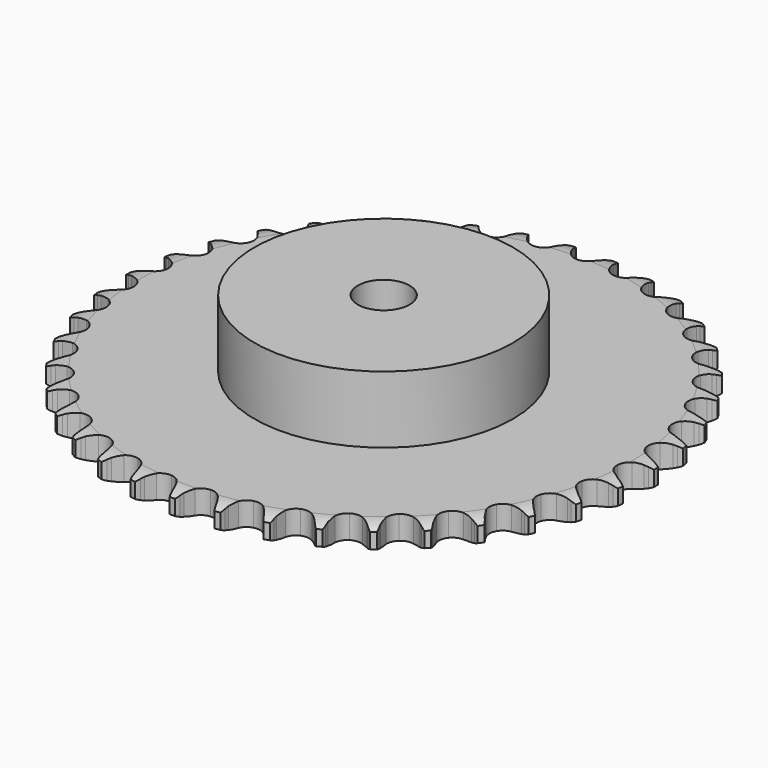
from build123d import *

# Parameters (mm, degrees)
PAD_DEPTH         = 9.1
SKETCH001_R       = 50
PAD001_DEPTH      = 35
SKETCH002_R       = 10
POCKET_DEPTH      = 0.001
POCKET_DEPTH_BACK = 35.001


with BuildPart() as part:
    # Sprocket → Pad (new body)
    with BuildSketch(Plane.XY):
        with BuildLine():
            ThreePointArc((-8.339812, 103.307115), (-7.225733, 101.913202), (-6.438066, 100.312033))
            Line((-6.438066, 100.312033), (-5.942659, 98.949016))
            ThreePointArc((-5.942659, 98.949016), (-5.159537, 97.199585), (-4.132583, 95.581205))
            ThreePointArc((-4.132583, 95.581205), (-2.31354, 94.049637), (0, 93.499951))
            ThreePointArc((0, 93.499951), (2.31354, 94.049637), (4.132583, 95.581205))
            ThreePointArc((4.132583, 95.581205), (5.159537, 97.199585), (5.942659, 98.949016))
            Line((5.942659, 98.949016), (6.438066, 100.312033))
            ThreePointArc((6.438066, 100.312033), (7.225733, 101.913202), (8.339812, 103.307115))
            ThreePointArc((8.339812, 103.307115), (9.215866, 101.752542), (9.736487, 100.045757))
            Line((9.736487, 100.045757), (10.006835, 98.620922))
            ThreePointArc((10.006835, 98.620922), (10.499188, 96.768524), (11.253236, 95.006366))
            ThreePointArc((11.253236, 95.006366), (12.803043, 93.202836), (14.998447, 92.289151))
            ThreePointArc((14.998447, 92.289151), (17.370203, 92.460601), (19.411371, 93.68054))
            Line((19.411371, 93.68054), (21.738242, 96.714383))
            ThreePointArc((21.738242, 96.714383), (22.074754, 97.357005), (22.445876, 97.98028))
            ThreePointArc((22.445876, 97.98028), (23.480189, 99.434364), (24.803441, 100.631515))
            ThreePointArc((24.803441, 100.631515), (25.418778, 98.956545), (25.65887, 97.188348))
            Line((25.65887, 97.188348), (25.697158, 95.738598))
            ThreePointArc((25.697158, 95.738598), (25.885989, 93.831209), (26.347603, 91.970913))
            ThreePointArc((26.347603, 91.970913), (27.588033, 89.942132), (29.608442, 88.688111))
            ThreePointArc((29.608442, 88.688111), (31.976986, 88.476884), (34.187414, 89.353599))
            Line((34.187414, 89.353599), (36.970815, 91.974898))
            ThreePointArc((36.970815, 91.974898), (37.406054, 92.555217), (37.87235, 93.110889))
            ThreePointArc((37.87235, 93.110889), (39.12652, 94.380228), (40.624673, 95.349611))
            ThreePointArc((40.624673, 95.349611), (40.963358, 93.597625), (40.916702, 91.813812))
            Line((40.916702, 91.813812), (40.721937, 90.376694))
            ThreePointArc((40.721937, 90.376694), (40.602357, 88.463715), (40.75958, 86.553461))
            ThreePointArc((40.75958, 86.553461), (41.658508, 84.351973), (43.451594, 82.790095))
            ThreePointArc((43.451594, 82.790095), (45.755583, 82.201662), (48.078021, 82.712447))
            Line((48.078021, 82.712447), (51.245864, 84.853311))
            ThreePointArc((51.245864, 84.853311), (51.768556, 85.356299), (52.31795, 85.829975))
            ThreePointArc((52.31795, 85.829975), (53.759496, 86.881694), (55.393747, 87.598203))
            ThreePointArc((55.393747, 87.598203), (55.447008, 85.814575), (55.114813, 84.061347))
            Line((55.114813, 84.061347), (54.69204, 82.674082))
            ThreePointArc((54.69204, 82.674082), (54.267144, 80.805057), (54.115906, 78.89432))
            ThreePointArc((54.115906, 78.89432), (54.650049, 76.577142), (56.169372, 74.747859))
            ThreePointArc((56.169372, 74.747859), (58.349134, 73.79746), (60.723433, 73.929085))
            Line((60.723433, 73.929085), (64.193672, 75.534069))
            ThreePointArc((64.193672, 75.534069), (64.79028, 75.946696), (65.408543, 76.32611))
            ThreePointArc((65.408543, 76.32611), (67.000128, 77.132969), (68.728153, 77.578047))
            ThreePointArc((68.728153, 77.578047), (68.49461, 75.808974), (67.885479, 74.131737))
            Line((67.885479, 74.131737), (67.245648, 72.830254))
            ThreePointArc((67.245648, 72.830254), (66.526442, 71.053591), (66.070658, 69.191857))
            ThreePointArc((66.070658, 69.191857), (66.226183, 66.819004), (67.432393, 64.769693))
            ThreePointArc((67.432393, 64.769693), (69.431473, 63.481943), (71.79614, 63.230999))
            Line((71.79614, 63.230999), (75.478897, 64.258533))
            ThreePointArc((75.478897, 64.258533), (76.13397, 64.570115), (76.805088, 64.845439))
            ThreePointArc((76.805088, 64.845439), (78.505492, 65.386541), (80.282535, 65.548661))
            ThreePointArc((80.282535, 65.548661), (79.768237, 63.839959), (78.897946, 62.282154))
            Line((78.897946, 62.282154), (78.057629, 61.10016))
            ThreePointArc((78.057629, 61.10016), (77.062739, 59.461873), (76.314215, 57.697362))
            ThreePointArc((76.314215, 57.697362), (76.087093, 55.330289), (76.948951, 53.114026))
            ThreePointArc((76.948951, 53.114026), (78.715574, 51.522277), (81.009364, 50.895264))
            Line((81.009364, 50.895264), (84.809259, 51.318735))
            ThreePointArc((84.809259, 51.318735), (85.50583, 51.521201), (86.212423, 51.685305))
            ThreePointArc((86.212423, 51.685305), (87.977606, 51.946636), (89.757642, 51.821599))
            ThreePointArc((89.757642, 51.821599), (88.975909, 50.217523), (87.866999, 48.819496))
            Line((87.866999, 48.819496), (86.847958, 47.787605))
            ThreePointArc((86.847958, 47.787605), (85.603152, 46.330125), (84.581273, 44.708535))
            ThreePointArc((84.581273, 44.708535), (83.977388, 42.408548), (84.472571, 40.082733))
            ThreePointArc((84.472571, 40.082733), (85.960982, 38.228211), (88.124489, 37.241368))
            Line((88.124489, 37.241368), (91.943106, 37.049809))
            ThreePointArc((91.943106, 37.049809), (92.663134, 37.137915), (93.386901, 37.186549))
            ThreePointArc((93.386901, 37.186549), (95.171145, 37.16134), (96.908073, 36.752384))
            ThreePointArc((96.908073, 36.752384), (95.879152, 35.29448), (94.560342, 34.092438))
            Line((94.560342, 34.092438), (93.388971, 33.237376))
            ThreePointArc((93.388971, 33.237376), (91.926489, 31.998451), (90.657722, 30.561781))
            ThreePointArc((90.657722, 30.561781), (89.692712, 28.388448), (89.808396, 26.013319))
            ThreePointArc((89.808396, 26.013319), (90.980047, 23.944055), (92.957235, 22.62294))
            Line((92.957235, 22.62294), (96.695674, 21.821313))
            ThreePointArc((96.695674, 21.821313), (97.420511, 21.792777), (98.142707, 21.724681))
            ThreePointArc((98.142707, 21.724681), (99.899802, 21.413585), (101.548636, 20.731302))
            ThreePointArc((101.548636, 20.731302), (100.299175, 19.457328), (98.804622, 18.482404))
            Line((98.804622, 18.482404), (97.511258, 17.826316))
            ThreePointArc((97.511258, 17.826316), (95.868977, 16.838033), (94.386182, 15.623493))
            ThreePointArc((94.386182, 15.623493), (93.085043, 13.633102), (92.818231, 11.270174))
            ThreePointArc((92.818231, 11.270174), (93.642775, 9.03976), (95.382438, 7.418589))
            Line((95.382438, 7.418589), (98.943875, 6.027656))
            ThreePointArc((98.943875, 6.027656), (99.654748, 5.883217), (100.356668, 5.700154))
            ThreePointArc((100.356668, 5.700154), (102.041106, 5.11123), (103.559143, 4.173291))
            ThreePointArc((103.559143, 4.173291), (102.121502, 3.116242), (100.489914, 2.393686))
            Line((100.489914, 2.393686), (99.108055, 1.953564))
            ThreePointArc((99.108055, 1.953564), (97.32851, 1.24152), (95.670091, 0.280564))
            ThreePointArc((95.670091, 0.280564), (94.066519, -1.475334), (93.424122, -3.764863))
            ThreePointArc((93.424122, -3.764863), (93.880205, -6.09866), (95.337286, -7.977899))
            Line((95.337286, -7.977899), (98.629482, -9.922115))
            ThreePointArc((98.629482, -9.922115), (99.30798, -10.178715), (99.971445, -10.472003))
            ThreePointArc((99.971445, -10.472003), (101.5396, -11.323504), (102.887522, -12.492807))
            ThreePointArc((102.887522, -12.492807), (101.298935, -13.305553), (99.572571, -13.757027))
            Line((99.572571, -13.757027), (98.138006, -13.969784))
            ThreePointArc((98.138006, -13.969784), (96.267285, -14.387148), (94.476194, -15.069631))
            ThreePointArc((94.476194, -15.069631), (92.611722, -16.545559), (91.610378, -18.702392))
            ThreePointArc((91.610378, -18.702392), (91.686187, -21.079128), (92.822948, -23.167763))
            Line((92.822948, -23.167763), (95.760637, -25.614907))
            ThreePointArc((95.760637, -25.614907), (96.389187, -25.977023), (96.997013, -26.372941))
            ThreePointArc((96.997013, -26.372941), (98.408271, -27.464965), (99.551168, -28.835348))
            ThreePointArc((99.551168, -28.835348), (97.85278, -29.382742), (96.07635, -29.551441))
            Line((96.07635, -29.551441), (94.626233, -29.531322))
            ThreePointArc((94.626233, -29.531322), (92.712788, -29.643197), (90.835413, -30.02953))
            ThreePointArc((90.835413, -30.02953), (88.75833, -31.187264), (87.423973, -33.155539))
            ThreePointArc((87.423973, -33.155539), (87.117545, -35.513658), (87.904545, -37.757595))
            Line((87.904545, -37.757595), (90.411642, -40.644288))
            ThreePointArc((90.411642, -40.644288), (90.973965, -41.10254), (91.51041, -41.590833))
            ThreePointArc((91.51041, -41.590833), (92.728219, -42.895097), (93.636492, -44.431068))
            ThreePointArc((93.636492, -44.431068), (91.872289, -44.698933), (90.091802, -44.580488))
            Line((90.091802, -44.580488), (88.663691, -44.328014))
            ThreePointArc((88.663691, -44.328014), (86.757079, -44.131503), (84.842043, -44.21168))
            ThreePointArc((84.842043, -44.21168), (82.606144, -45.021234), (80.973333, -46.749975))
            ThreePointArc((80.973333, -46.749975), (80.292605, -49.028402), (80.70946, -51.369524))
            Line((80.70946, -51.369524), (82.721032, -54.621002))
            ThreePointArc((82.721032, -54.621002), (83.202565, -55.163524), (83.653736, -55.731545))
            ThreePointArc((83.653736, -55.731545), (84.646556, -57.21427), (85.296679, -58.876047))
            ThreePointArc((85.296679, -58.876047), (83.512354, -58.857445), (81.773923, -58.454924))
            Line((81.773923, -58.454924), (80.404806, -57.976635))
            ThreePointArc((80.404806, -57.976635), (78.554406, -57.476825), (76.651309, -57.248772))
            ThreePointArc((76.651309, -57.248772), (74.314503, -57.689179), (72.425526, -59.133611))
            ThreePointArc((72.425526, -59.133611), (71.388128, -61.273337), (71.424042, -63.65101))
            Line((71.424042, -63.65101), (72.887992, -67.183061))
            ThreePointArc((72.887992, -67.183061), (73.276262, -67.7958), (73.630473, -68.428839))
            ThreePointArc((73.630473, -68.428839), (74.372591, -70.051622), (74.747728, -71.796167))
            ThreePointArc((74.747728, -71.796167), (72.989493, -71.49158), (71.338143, -70.815407))
            Line((71.338143, -70.815407), (70.063479, -70.12369))
            ThreePointArc((70.063479, -70.12369), (68.317216, -69.333528), (66.475345, -68.80315))
            ThreePointArc((66.475345, -68.80315), (64.098154, -68.863003), (62.001936, -69.985718))
            ThreePointArc((62.001936, -69.985718), (60.634736, -71.931324), (60.28878, -74.283969))
            Line((60.28878, -74.283969), (61.167191, -78.005114))
            ThreePointArc((61.167191, -78.005114), (61.452142, -78.672202), (61.70022, -79.353862))
            ThreePointArc((61.70022, -79.353862), (62.172415, -81.074675), (62.262849, -82.856804))
            ThreePointArc((62.262849, -82.856804), (60.576242, -82.274121), (59.054743, -81.341809))
            Line((59.054743, -81.341809), (57.907544, -80.454579))
            ThreePointArc((57.907544, -80.454579), (56.310646, -79.39453), (54.577706, -78.575562))
            ThreePointArc((54.577706, -78.575562), (52.221697, -78.253313), (49.972528, -79.025231))
            ThreePointArc((49.972528, -79.025231), (48.310936, -80.726328), (47.592069, -82.993011))
            Line((47.592069, -82.993011), (47.862191, -86.806876))
            ThreePointArc((47.862191, -86.806876), (48.036445, -87.511034), (48.171964, -88.223662))
            ThreePointArc((48.171964, -88.223662), (48.362006, -89.997936), (48.165396, -91.771494))
            ThreePointArc((48.165396, -91.771494), (46.594098, -90.925805), (45.241856, -89.761501))
            Line((45.241856, -89.761501), (44.251835, -88.701737))
            ThreePointArc((44.251835, -88.701737), (42.84566, -87.399254), (41.266532, -86.312909))
            ThreePointArc((41.266532, -86.312909), (38.992726, -85.616902), (36.648859, -86.018033))
            ThreePointArc((36.648859, -86.018033), (34.735908, -87.430563), (33.662749, -89.552578))
            Line((33.662749, -89.552578), (33.317586, -93.360385))
            ThreePointArc((33.317586, -93.360385), (33.376628, -94.083377), (33.396079, -94.808515))
            ThreePointArc((33.396079, -94.808515), (33.299047, -96.590297), (32.820483, -98.30935))
            ThreePointArc((32.820483, -98.30935), (31.405192, -97.222559), (30.257228, -95.856417))
            Line((30.257228, -95.856417), (29.450026, -94.651566))
            ThreePointArc((29.450026, -94.651566), (28.270993, -93.140384), (26.886577, -91.814797))
            ThreePointArc((26.886577, -91.814797), (24.753864, -90.763059), (22.376003, -90.783012))
            ThreePointArc((22.376003, -90.783012), (20.261239, -91.870391), (18.861582, -93.792781))
            Line((18.861582, -93.792781), (17.910073, -97.495909))
            ThreePointArc((17.910073, -97.495909), (17.852375, -98.21901), (17.755253, -98.937877))
            ThreePointArc((17.755253, -98.937877), (17.373659, -100.681021), (16.625538, -102.301045))
            ThreePointArc((16.625538, -102.301045), (15.402908, -101.001299), (14.488954, -99.468703))
            Line((14.488954, -99.468703), (13.885477, -98.14997))
            ThreePointArc((13.885477, -98.14997), (12.964123, -96.469227), (11.810274, -94.93873))
            ThreePointArc((11.810274, -94.93873), (9.873889, -93.5585), (7.52362, -93.196759))
            ThreePointArc((7.52362, -93.196759), (5.261814, -93.930825), (3.571909, -95.603799))
            Line((3.571909, -95.603799), (2.038699, -99.106341))
            ThreePointArc((2.038699, -99.106341), (1.865754, -99.810822), (1.654576, -100.504801))
            ThreePointArc((1.654576, -100.504801), (0.998304, -102.164159), (0, -103.643198))
            ThreePointArc((0, -103.643198), (-0.998304, -102.164159), (-1.654576, -100.504801))
            Line((-1.654576, -100.504801), (-2.038699, -99.106341))
            ThreePointArc((-2.038699, -99.106341), (-2.678511, -97.299567), (-3.571909, -95.603799))
            ThreePointArc((-3.571909, -95.603799), (-5.261814, -93.930825), (-7.52362, -93.196759))
            ThreePointArc((-7.52362, -93.196759), (-9.873889, -93.5585), (-11.810274, -94.93873))
            Line((-11.810274, -94.93873), (-13.885477, -98.14997))
            ThreePointArc((-13.885477, -98.14997), (-14.169189, -98.817586), (-14.488954, -99.468703))
            ThreePointArc((-14.488954, -99.468703), (-15.402908, -101.001299), (-16.625538, -102.301045))
            ThreePointArc((-16.625538, -102.301045), (-17.373659, -100.681021), (-17.755253, -98.937877))
            Line((-17.755253, -98.937877), (-17.910073, -97.495909))
            ThreePointArc((-17.910073, -97.495909), (-18.251773, -95.6099), (-18.861582, -93.792781))
            ThreePointArc((-18.861582, -93.792781), (-20.261239, -91.870391), (-22.376003, -90.783012))
            ThreePointArc((-22.376003, -90.783012), (-24.753864, -90.763059), (-26.886577, -91.814797))
            Line((-26.886577, -91.814797), (-29.450026, -94.651566))
            ThreePointArc((-29.450026, -94.651566), (-29.837157, -95.265026), (-30.257228, -95.856417))
            ThreePointArc((-30.257228, -95.856417), (-31.405192, -97.222559), (-32.820483, -98.30935))
            ThreePointArc((-32.820483, -98.30935), (-33.299047, -96.590297), (-33.396079, -94.808515))
            Line((-33.396079, -94.808515), (-33.317586, -93.360385))
            ThreePointArc((-33.317586, -93.360385), (-33.352324, -91.443987), (-33.662749, -89.552578))
            ThreePointArc((-33.662749, -89.552578), (-34.735908, -87.430563), (-36.648859, -86.018033))
            ThreePointArc((-36.648859, -86.018033), (-38.992726, -85.616902), (-41.266532, -86.312909))
            Line((-41.266532, -86.312909), (-44.251835, -88.701737))
            ThreePointArc((-44.251835, -88.701737), (-44.732358, -89.245152), (-45.241856, -89.761501))
            ThreePointArc((-45.241856, -89.761501), (-46.594098, -90.925805), (-48.165396, -91.771494))
            ThreePointArc((-48.165396, -91.771494), (-48.362006, -89.997936), (-48.171964, -88.223662))
            Line((-48.171964, -88.223662), (-47.862191, -86.806876))
            ThreePointArc((-47.862191, -86.806876), (-47.589067, -84.909722), (-47.592069, -82.993011))
            ThreePointArc((-47.592069, -82.993011), (-48.310936, -80.726328), (-49.972528, -79.025231))
            ThreePointArc((-49.972528, -79.025231), (-52.221697, -78.253313), (-54.577706, -78.575562))
            Line((-54.577706, -78.575562), (-57.907544, -80.454579))
            ThreePointArc((-57.907544, -80.454579), (-58.469015, -80.913876), (-59.054743, -81.341809))
            ThreePointArc((-59.054743, -81.341809), (-60.576242, -82.274121), (-62.262849, -82.856804))
            ThreePointArc((-62.262849, -82.856804), (-62.172415, -81.074675), (-61.70022, -79.353862))
            Line((-61.70022, -79.353862), (-61.167191, -78.005114))
            ThreePointArc((-61.167191, -78.005114), (-60.593279, -76.17634), (-60.28878, -74.283969))
            ThreePointArc((-60.28878, -74.283969), (-60.634736, -71.931324), (-62.001936, -69.985718))
            ThreePointArc((-62.001936, -69.985718), (-64.098154, -68.863003), (-66.475345, -68.80315))
            Line((-66.475345, -68.80315), (-70.063479, -70.12369))
            ThreePointArc((-70.063479, -70.12369), (-70.691356, -70.486973), (-71.338143, -70.815407))
            ThreePointArc((-71.338143, -70.815407), (-72.989493, -71.49158), (-74.747728, -71.796167))
            ThreePointArc((-74.747728, -71.796167), (-74.372591, -70.051622), (-73.630473, -68.428839))
            Line((-73.630473, -68.428839), (-72.887992, -67.183061))
            ThreePointArc((-72.887992, -67.183061), (-72.028156, -65.470031), (-71.424042, -63.65101))
            ThreePointArc((-71.424042, -63.65101), (-71.388128, -61.273337), (-72.425526, -59.133611))
            ThreePointArc((-72.425526, -59.133611), (-74.314503, -57.689179), (-76.651309, -57.248772))
            Line((-76.651309, -57.248772), (-80.404806, -57.976635))
            ThreePointArc((-80.404806, -57.976635), (-81.082827, -58.234494), (-81.773923, -58.454924))
            ThreePointArc((-81.773923, -58.454924), (-83.512354, -58.857445), (-85.296679, -58.876047))
            ThreePointArc((-85.296679, -58.876047), (-84.646556, -57.21427), (-83.653736, -55.731545))
            Line((-83.653736, -55.731545), (-82.721032, -54.621002))
            ThreePointArc((-82.721032, -54.621002), (-81.597542, -53.068083), (-80.70946, -51.369524))
            ThreePointArc((-80.70946, -51.369524), (-80.292605, -49.028402), (-80.973333, -46.749975))
            ThreePointArc((-80.973333, -46.749975), (-82.606144, -45.021234), (-84.842043, -44.21168))
            Line((-84.842043, -44.21168), (-88.663691, -44.328014))
            ThreePointArc((-88.663691, -44.328014), (-89.374295, -44.473773), (-90.091802, -44.580488))
            ThreePointArc((-90.091802, -44.580488), (-91.872289, -44.698933), (-93.636492, -44.431068))
            ThreePointArc((-93.636492, -44.431068), (-92.728219, -42.895097), (-91.51041, -41.590833))
            Line((-91.51041, -41.590833), (-90.411642, -40.644288))
            ThreePointArc((-90.411642, -40.644288), (-89.053594, -39.291699), (-87.904545, -37.757595))
            ThreePointArc((-87.904545, -37.757595), (-87.117545, -35.513658), (-87.423973, -33.155539))
            ThreePointArc((-87.423973, -33.155539), (-88.75833, -31.187264), (-90.835413, -30.02953))
            Line((-90.835413, -30.02953), (-94.626233, -29.531322))
            ThreePointArc((-94.626233, -29.531322), (-95.351016, -29.561204), (-96.07635, -29.551441))
            ThreePointArc((-96.07635, -29.551441), (-97.85278, -29.382742), (-99.551168, -28.835348))
            ThreePointArc((-99.551168, -28.835348), (-98.408271, -27.464965), (-96.997013, -26.372941))
            Line((-96.997013, -26.372941), (-95.760637, -25.614907))
            ThreePointArc((-95.760637, -25.614907), (-94.203205, -24.497681), (-92.822948, -23.167763))
            ThreePointArc((-92.822948, -23.167763), (-91.686187, -21.079128), (-91.610378, -18.702392))
            ThreePointArc((-91.610378, -18.702392), (-92.611722, -16.545559), (-94.476194, -15.069631))
            Line((-94.476194, -15.069631), (-98.138006, -13.969784))
            ThreePointArc((-98.138006, -13.969784), (-98.858196, -13.883016), (-99.572571, -13.757027))
            ThreePointArc((-99.572571, -13.757027), (-101.298935, -13.305553), (-102.887522, -12.492807))
            ThreePointArc((-102.887522, -12.492807), (-101.5396, -11.323504), (-99.971445, -10.472003))
            Line((-99.971445, -10.472003), (-98.629482, -9.922115))
            ThreePointArc((-98.629482, -9.922115), (-96.913003, -9.069185), (-95.337286, -7.977899))
            ThreePointArc((-95.337286, -7.977899), (-93.880205, -6.09866), (-93.424122, -3.764863))
            ThreePointArc((-93.424122, -3.764863), (-94.066519, -1.475334), (-95.670091, 0.280564))
            Line((-95.670091, 0.280564), (-99.108055, 1.953564))
            ThreePointArc((-99.108055, 1.953564), (-99.805001, 2.154736), (-100.489914, 2.393686))
            ThreePointArc((-100.489914, 2.393686), (-102.121502, 3.116242), (-103.559143, 4.173291))
            ThreePointArc((-103.559143, 4.173291), (-102.041106, 5.11123), (-100.356668, 5.700154))
            Line((-100.356668, 5.700154), (-98.943875, 6.027656))
            ThreePointArc((-98.943875, 6.027656), (-97.112804, 6.594197), (-95.382438, 7.418589))
            ThreePointArc((-95.382438, 7.418589), (-93.642775, 9.03976), (-92.818231, 11.270174))
            ThreePointArc((-92.818231, 11.270174), (-93.085043, 13.633102), (-94.386182, 15.623493))
            Line((-94.386182, 15.623493), (-97.511258, 17.826316))
            ThreePointArc((-97.511258, 17.826316), (-98.166909, 18.136681), (-98.804622, 18.482404))
            ThreePointArc((-98.804622, 18.482404), (-100.299175, 19.457328), (-101.548636, 20.731302))
            ThreePointArc((-101.548636, 20.731302), (-99.899802, 21.413585), (-98.142707, 21.724681))
            Line((-98.142707, 21.724681), (-96.695674, 21.821313))
            ThreePointArc((-96.695674, 21.821313), (-94.797435, 22.086793), (-92.957235, 22.62294))
            ThreePointArc((-92.957235, 22.62294), (-90.980047, 23.944055), (-89.808396, 26.013319))
            ThreePointArc((-89.808396, 26.013319), (-89.692712, 28.388448), (-90.657722, 30.561781))
            Line((-90.657722, 30.561781), (-93.388971, 33.237376))
            ThreePointArc((-93.388971, 33.237376), (-93.986345, 33.648895), (-94.560342, 34.092438))
            ThreePointArc((-94.560342, 34.092438), (-95.879152, 35.29448), (-96.908073, 36.752384))
            ThreePointArc((-96.908073, 36.752384), (-95.171145, 37.16134), (-93.386901, 37.186549))
            Line((-93.386901, 37.186549), (-91.943106, 37.049809))
            ThreePointArc((-91.943106, 37.049809), (-90.026863, 37.007353), (-88.124489, 37.241368))
            ThreePointArc((-88.124489, 37.241368), (-85.960982, 38.228211), (-84.472571, 40.082733))
            ThreePointArc((-84.472571, 40.082733), (-83.977388, 42.408548), (-84.581273, 44.708535))
            Line((-84.581273, 44.708535), (-86.847958, 47.787605))
            ThreePointArc((-86.847958, 47.787605), (-87.371584, 48.28962), (-87.866999, 48.819496))
            ThreePointArc((-87.866999, 48.819496), (-88.975909, 50.217523), (-89.757642, 51.821599))
            ThreePointArc((-89.757642, 51.821599), (-87.977606, 51.946636), (-86.212423, 51.685305))
            Line((-86.212423, 51.685305), (-84.809259, 51.318735))
            ThreePointArc((-84.809259, 51.318735), (-82.924641, 50.969442), (-81.009364, 50.895264))
            ThreePointArc((-81.009364, 50.895264), (-78.715574, 51.522277), (-76.948951, 53.114026))
            ThreePointArc((-76.948951, 53.114026), (-76.087093, 55.330289), (-76.314215, 57.697362))
            Line((-76.314215, 57.697362), (-78.057629, 61.10016))
            ThreePointArc((-78.057629, 61.10016), (-78.493945, 61.67967), (-78.897946, 62.282154))
            ThreePointArc((-78.897946, 62.282154), (-79.768237, 63.839959), (-80.282535, 65.548661))
            ThreePointArc((-80.282535, 65.548661), (-78.505492, 65.386541), (-76.805088, 64.845439))
            Line((-76.805088, 64.845439), (-75.478897, 64.258533))
            ThreePointArc((-75.478897, 64.258533), (-73.674716, 63.611449), (-71.79614, 63.230999))
            ThreePointArc((-71.79614, 63.230999), (-69.431473, 63.481943), (-67.432393, 64.769693))
            ThreePointArc((-67.432393, 64.769693), (-66.226183, 66.819004), (-66.070658, 69.191857))
            Line((-66.070658, 69.191857), (-67.245648, 72.830254))
            ThreePointArc((-67.245648, 72.830254), (-67.583354, 73.472249), (-67.885479, 74.131737))
            ThreePointArc((-67.885479, 74.131737), (-68.49461, 75.808974), (-68.728153, 77.578047))
            ThreePointArc((-68.728153, 77.578047), (-67.000128, 77.132969), (-65.408543, 76.32611))
            Line((-65.408543, 76.32611), (-64.193672, 75.534069))
            ThreePointArc((-64.193672, 75.534069), (-62.516653, 74.605953), (-60.723433, 73.929085))
            ThreePointArc((-60.723433, 73.929085), (-58.349134, 73.79746), (-56.169372, 74.747859))
            ThreePointArc((-56.169372, 74.747859), (-54.650049, 76.577142), (-54.115906, 78.89432))
            Line((-54.115906, 78.89432), (-54.69204, 82.674082))
            ThreePointArc((-54.69204, 82.674082), (-54.92239, 83.361935), (-55.114813, 84.061347))
            ThreePointArc((-55.114813, 84.061347), (-55.447008, 85.814575), (-55.393747, 87.598203))
            ThreePointArc((-55.393747, 87.598203), (-53.759496, 86.881694), (-52.31795, 85.829975))
            Line((-52.31795, 85.829975), (-51.245864, 84.853311))
            ThreePointArc((-51.245864, 84.853311), (-49.739443, 83.668202), (-48.078021, 82.712447))
            ThreePointArc((-48.078021, 82.712447), (-45.755583, 82.201662), (-43.451594, 82.790095))
            ThreePointArc((-43.451594, 82.790095), (-41.658508, 84.351973), (-40.75958, 86.553461))
            Line((-40.75958, 86.553461), (-40.721937, 90.376694))
            ThreePointArc((-40.721937, 90.376694), (-40.838965, 91.092591), (-40.916702, 91.813812))
            ThreePointArc((-40.916702, 91.813812), (-40.963358, 93.597625), (-40.624673, 95.349611))
            ThreePointArc((-40.624673, 95.349611), (-39.12652, 94.380228), (-37.87235, 93.110889))
            Line((-37.87235, 93.110889), (-36.970815, 91.974898))
            ThreePointArc((-36.970815, 91.974898), (-35.674006, 90.563489), (-34.187414, 89.353599))
            ThreePointArc((-34.187414, 89.353599), (-31.976986, 88.476884), (-29.608442, 88.688111))
            ThreePointArc((-29.608442, 88.688111), (-27.588033, 89.942132), (-26.347603, 91.970913))
            Line((-26.347603, 91.970913), (-25.697158, 95.738598))
            ThreePointArc((-25.697158, 95.738598), (-25.697832, 96.463996), (-25.65887, 97.188348))
            ThreePointArc((-25.65887, 97.188348), (-25.418778, 98.956545), (-24.803441, 100.631515))
            ThreePointArc((-24.803441, 100.631515), (-23.480189, 99.434364), (-22.445876, 97.98028))
            Line((-22.445876, 97.98028), (-21.738242, 96.714383))
            ThreePointArc((-21.738242, 96.714383), (-20.684632, 95.113228), (-19.411371, 93.68054))
            ThreePointArc((-19.411371, 93.68054), (-17.370203, 92.460601), (-14.998447, 92.289151))
            ThreePointArc((-14.998447, 92.289151), (-12.803043, 93.202836), (-11.253236, 95.006366))
            Line((-11.253236, 95.006366), (-10.006835, 98.620922))
            ThreePointArc((-10.006835, 98.620922), (-9.891138, 99.337035), (-9.736487, 100.045757))
            ThreePointArc((-9.736487, 100.045757), (-9.215866, 101.752542), (-8.339812, 103.307115))
        make_face()
    extrude(amount=PAD_DEPTH)

    # Sketch → Groove (revolve, cut)
    with BuildSketch(Plane.XZ):
        with BuildLine():
            Line((95.125762, 0), (102.1, 0))
            Line((109.074238, 0), (102.1, 0))
            Line((109.074238, 9.1), (109.074238, 0))
            Line((102.1, 9.1), (109.074238, 9.1))
            Line((95.125762, 9.1), (102.1, 9.1))
            ThreePointArc((102.1, 7.5), (98.70347, 8.694871), (95.125762, 9.1))
            Line((102.1, 1.6), (102.1, 7.5))
            ThreePointArc((95.125762, 0), (98.70347, 0.405129), (102.1, 1.6))
        make_face()
    revolve(axis=Axis((0, 0, 0), (0, 0, 1)), mode=Mode.SUBTRACT)

    # Sketch001 → Pad001 (join)
    with BuildSketch(Plane.XY):
        Circle(SKETCH001_R)
    extrude(amount=PAD001_DEPTH)

    # Sketch002 → Pocket (cut, two sides)
    with BuildSketch(Plane.XY) as pocket_sk:
        Circle(SKETCH002_R)
    extrude(amount=-POCKET_DEPTH, mode=Mode.SUBTRACT)
    extrude(pocket_sk.sketch, amount=POCKET_DEPTH_BACK, mode=Mode.SUBTRACT)


solid = part.part
